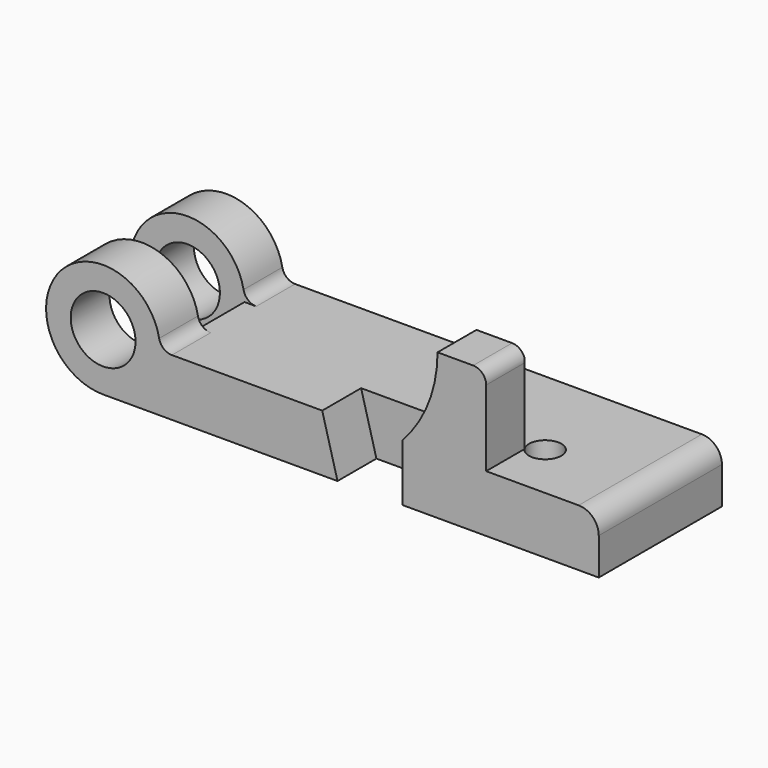
from build123d import *

# Parameters (mm, degrees)
F0_R     = 12.7
F1_DEPTH = 60.325
F3_DEPTH = 19.05
F5_DEPTH = 41.275
F6_R     = 6.35
F7_DEPTH = 57.151
F8_W     = 57.6777060051
F8_H     = 22.3266
F9_DEPTH = 25.4
F10_R    = 7.874
F11_R    = 5.08
F12_R    = 5.08


with BuildPart() as f1:
    # F0 (on Front) → F1 (new body)
    with BuildSketch(Plane.XZ):
        with BuildLine():
            ThreePointArc((22.352, 0), (-15.8052507731, 15.8052507731), (0, -22.352))
            Line((0, -22.352), (194.2084, -22.352))
            Line((194.2084, -22.352), (194.2084, 0))
            Line((194.2084, 0), (150.0886, 0))
            Line((150.0886, 0), (150.0886, 34.798))
            Line((150.0886, 34.798), (131.0386, 34.798))
            ThreePointArc((131.0386, 34.798), (127.4644153616, 16.0823576341), (117.2464, 0))
            Line((117.2464, 0), (85.852, 0))
            Line((85.852, 0), (22.352, 0))
        make_face()
        Circle(F0_R, mode=Mode.SUBTRACT)
    extrude(amount=F1_DEPTH)

    # F2 (on face) → F3 (cut)
    with BuildSketch(Plane.XZ.offset(60.325)):
        Polygon((117.2464, 0), (85.852, 0), (91.8464, -22.352), (117.2464, -22.352), align=None)
    extrude(amount=-F3_DEPTH, mode=Mode.SUBTRACT)

    # F4 (on face) → F5 (cut)
    with BuildSketch(Plane(origin=(0, 0, 0), x_dir=(-1, 0, 0), z_dir=(0, 1, 0))):
        with BuildLine():
            Line((-150.0886, 34.798), (-150.0886, 0))
            Line((-150.0886, 0), (-117.2464, 0))
            ThreePointArc((-117.2464, 0), (-127.4644153616, 16.0823576341), (-131.0386, 34.798))
            Line((-131.0386, 34.798), (-150.0886, 34.798))
        make_face()
    extrude(amount=-F5_DEPTH, mode=Mode.SUBTRACT)

    # F6 (on face) → F7 (cut, through all)
    with BuildSketch(Plane(origin=(0, 0, -22.352), x_dir=(1, 0, 0), z_dir=(0, 0, -1))):
        with Locations((155.3464, 37.973)):
            Circle(F6_R)
    extrude(amount=-F7_DEPTH, mode=Mode.SUBTRACT)

    # F8 (on face) → F9 (cut, symmetric)
    with BuildSketch(Plane.XY):
        with Locations((-6.4868530025, -30.1625)):
            Rectangle(F8_W, F8_H)
    extrude(amount=F9_DEPTH, both=True, mode=Mode.SUBTRACT)

    # F10
    f10_edges = [f1.edges().sort_by_distance(p)[0] for p in [
        (194.2084, -30.1625, 0),
    ]]
    fillet(f10_edges, radius=F10_R)

    # F11
    f11_edges = [f1.edges().sort_by_distance(p)[0] for p in [
        (150.0886, -50.929312, 34.798),
    ]]
    fillet(f11_edges, radius=F11_R)

    # F12
    f12_edges = [f1.edges().sort_by_distance(p)[0] for p in [
        (22.352, -9.4996, 0),
        (22.352, -50.8254, 0),
    ]]
    fillet(f12_edges, radius=F12_R)


solid = f1.part
